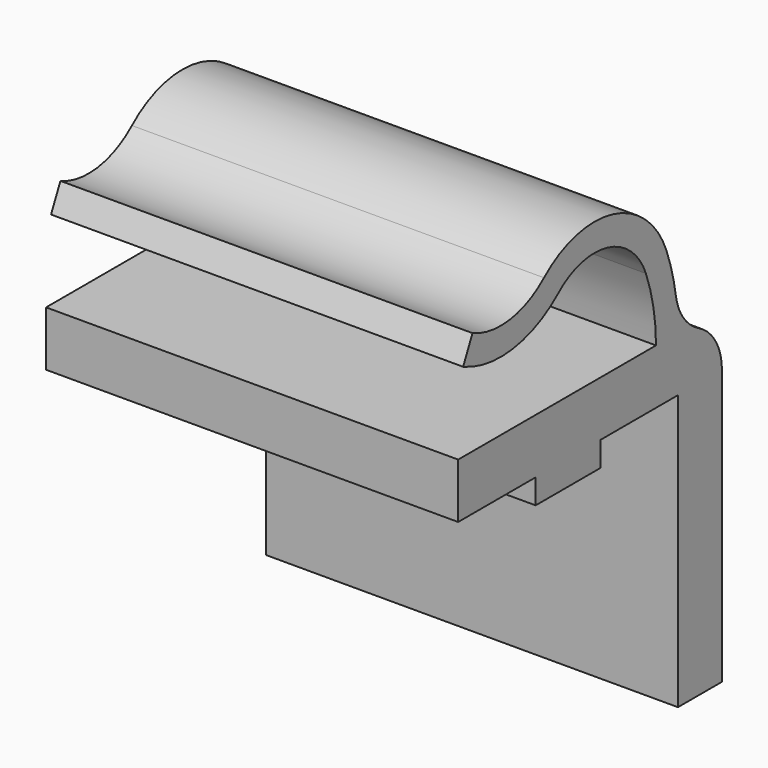
from build123d import *

# Parameters (mm, degrees)
PAD018_DEPTH    = 15
FILLET017_R     = 4
SKETCH077_R     = 1.7
POCKET041_DEPTH = 14.0010001


with BuildPart() as part:
    # Sketch076 → Pad018 (new body, symmetric)
    with BuildSketch(Plane.YZ):
        with BuildLine():
            Line((-2.95, 0), (2.95, 0))
            Line((2.95, 0), (2.95, 1.8))
            Line((2.95, 1.8), (10, 1.8))
            Line((10, -18.2), (10, 1.8))
            Line((14, -18.2), (10, -18.2))
            Line((14, 1.8), (14, -18.2))
            ThreePointArc((14, 1.8), (12.8284271247, 4.6284271247), (10, 5.8))
            ThreePointArc((10, 5.8), (9.7359108307, 8.6950147374), (8.9523612088, 11.4944617201))
            ThreePointArc((8.9523612088, 11.4944617201), (4.1074030924, 15.7943944981), (-2.1905894743, 14.2783698696))
            ThreePointArc((-8.6955362552, 13.3740094918), (-5.3083417089, 12.8571578981), (-2.1905894743, 14.2783698696))
            Line((-9.5491968047, 11.565345989), (-8.6955362552, 13.3740094918))
            ThreePointArc((-9.5491968047, 11.565345989), (-5.0329374097, 10.8762105308), (-0.8759344302, 12.7711598262))
            ThreePointArc((7.0833160577, 10.7826540051), (3.6226316889, 13.8540345608), (-0.8759344302, 12.7711598262))
            ThreePointArc((8, 5.8), (7.7689219768, 8.3331378952), (7.0833160577, 10.7826540051))
            Line((-10, 5.8), (8, 5.8))
            Line((-10, 5.8), (-10, 1.8))
            Line((-2.95, 1.8), (-10, 1.8))
            Line((-2.95, 0), (-2.95, 1.8))
        make_face()
    extrude(amount=PAD018_DEPTH, both=True)

    # Fillet017
    fillet017_edges = [part.edges().sort_by_distance(p)[0] for p in [
        (0, 10, 5.8),
    ]]
    fillet(fillet017_edges, radius=FILLET017_R)

    # Sketch077 → Pocket041 (cut, through all)
    with BuildSketch(Plane.XZ):
        with Locations((0, -8.2)):
            Circle(SKETCH077_R)
    extrude(amount=-POCKET041_DEPTH, mode=Mode.SUBTRACT)


solid = part.part
